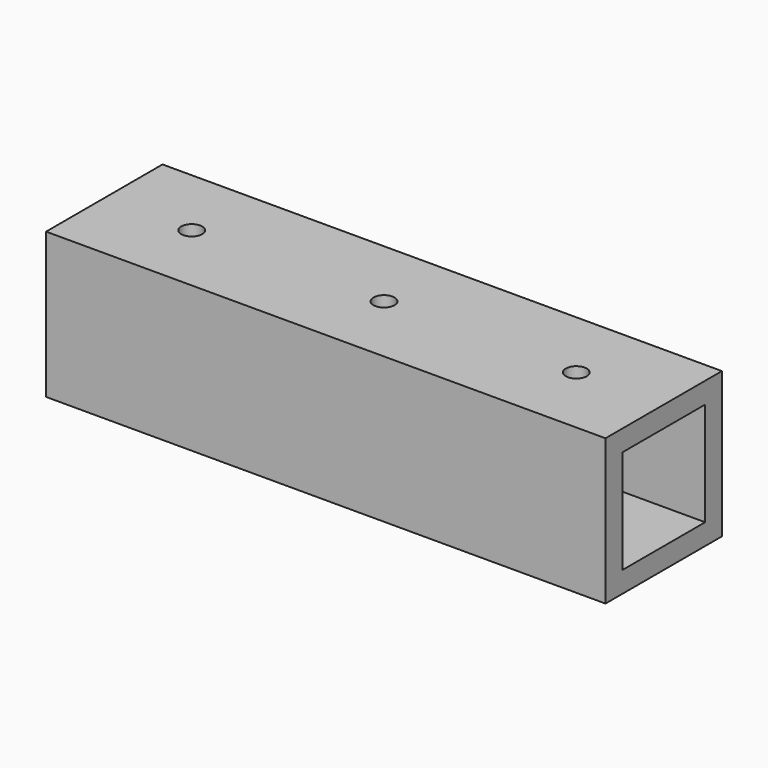
from build123d import *

# Parameters (mm, degrees)
F0_W     = 41.625001
F0_H     = 41.625001
F0_W_2   = 29.625001
F0_H_2   = 29.625001
F1_DEPTH = 160
F3_D     = 6


with BuildPart() as f1:
    # F0 (on Right) → F1 (new body)
    with BuildSketch(Plane.YZ):
        with Locations((-20.8125, 20.8125)):
            Rectangle(F0_W, F0_H)
        with Locations((-20.8125, 20.8125)):
            Rectangle(F0_W_2, F0_H_2, mode=Mode.SUBTRACT)
    extrude(amount=F1_DEPTH)

    # F3 (through all)
    with Locations(Plane.XY.offset(41.625001)):
        with Locations((135, -20.8125), (80, -20.8125), (25, -20.8125)):
            Hole(F3_D / 2)


solid = f1.part
